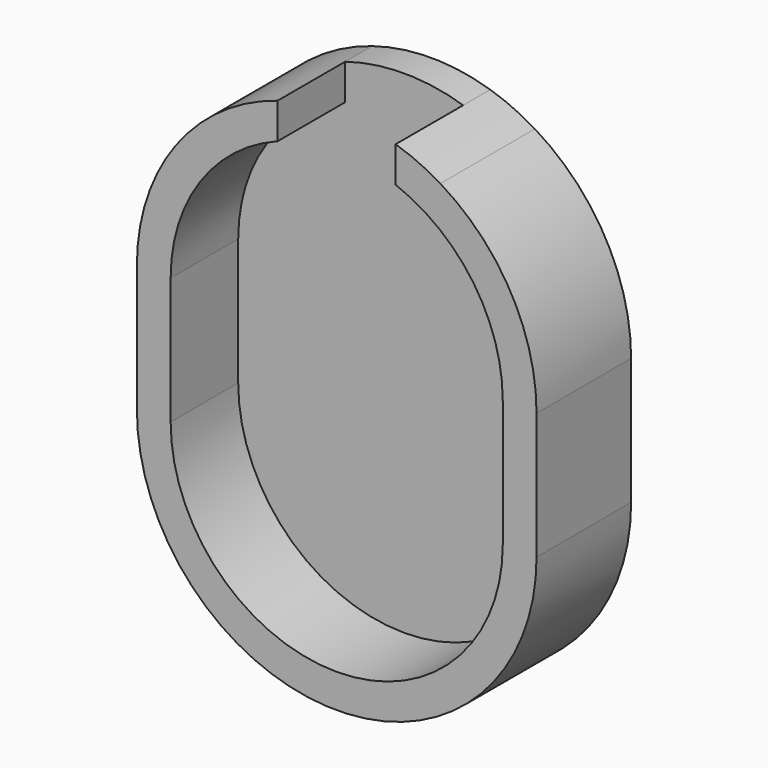
from build123d import *

# Parameters (mm, degrees)
F1_DEPTH = 10
F0_R     = 10
F2_DEPTH = 4


with BuildPart() as f1:
    # F0 (on Front) → F1 (new body)
    with BuildSketch(Plane.XZ):
        with BuildLine():
            Line((-19.661892, -15), (-19.661892, 0))
            ThreePointArc((-19.661892, 0), (-16.189862, 11.156988), (-7, 18.373622))
            Line((-7, 18.373622), (-7, 22.602768))
            ThreePointArc((-7, 22.602768), (-19.046238, 14.040155), (-23.661892, 0))
            Line((-23.661892, 0), (-23.661892, -15))
            ThreePointArc((-23.661892, -15), (0, -38.661892), (23.661892, -15))
            Line((23.661892, -15), (23.661892, 0))
            ThreePointArc((23.661892, 0), (20.617598, 11.610331), (12.268062, 20.233136))
            ThreePointArc((12.268062, 20.233136), (9.697053, 21.583612), (6.979972, 22.608961))
            Line((6.979972, 22.608961), (6.979972, 18.38124))
            ThreePointArc((6.979972, 18.38124), (16.18378, 11.165808), (19.661892, 0))
            Line((19.661892, 0), (19.661892, -15))
            ThreePointArc((19.661892, -15), (0, -34.661892), (-19.661892, -15))
        make_face()
    extrude(amount=F1_DEPTH)

    # F0 (on Front) → F2 (join)
    with BuildSketch(Plane.XZ):
        with BuildLine():
            Line((-19.661892, -15), (-19.661892, 0))
            ThreePointArc((-19.661892, 0), (-16.189862, 11.156988), (-7, 18.373622))
            Line((-7, 18.373622), (-7, 22.602768))
            ThreePointArc((-7, 22.602768), (-19.046238, 14.040155), (-23.661892, 0))
            Line((-23.661892, 0), (-23.661892, -15))
            ThreePointArc((-23.661892, -15), (0, -38.661892), (23.661892, -15))
            Line((23.661892, -15), (23.661892, 0))
            ThreePointArc((23.661892, 0), (20.617598, 11.610331), (12.268062, 20.233136))
            ThreePointArc((12.268062, 20.233136), (9.697053, 21.583612), (6.979972, 22.608961))
            Line((6.979972, 22.608961), (6.979972, 18.38124))
            ThreePointArc((6.979972, 18.38124), (16.18378, 11.165808), (19.661892, 0))
            Line((19.661892, 0), (19.661892, -15))
            ThreePointArc((19.661892, -15), (0, -34.661892), (-19.661892, -15))
        make_face()
        with BuildLine():
            ThreePointArc((-7, 18.373622), (-16.189862, 11.156988), (-19.661892, 0))
            Line((-19.661892, 0), (-19.661892, -15))
            ThreePointArc((-19.661892, -15), (0, -34.661892), (19.661892, -15))
            Line((19.661892, -15), (19.661892, 0))
            ThreePointArc((19.661892, 0), (16.18378, 11.165808), (6.979972, 18.38124))
            Line((6.979972, 18.38124), (6.979972, 22.608961))
            ThreePointArc((6.979972, 22.608961), (-0.010482, 23.66189), (-7, 22.602768))
            Line((-7, 22.602768), (-7, 18.373622))
        make_face()
        Circle(F0_R, mode=Mode.SUBTRACT)
        Circle(F0_R)
    extrude(amount=-F2_DEPTH)


solid = f1.part
